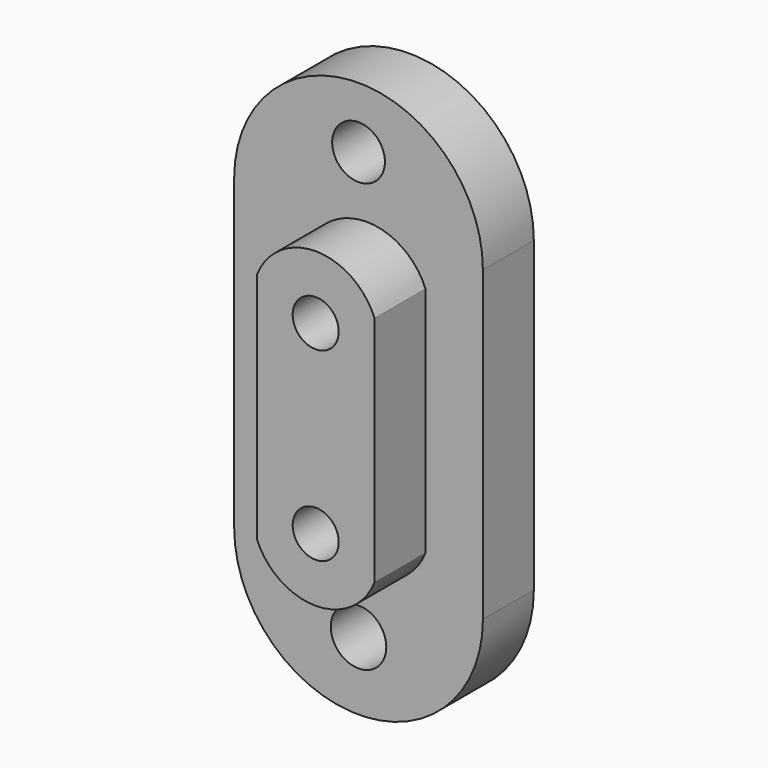
from build123d import *

# Parameters (mm, degrees)
F0_R     = 5.534072
F0_R_2   = 5.262589
F1_DEPTH = 12.7
F2_R     = 4.5907
F2_R_2   = 4.594767
F3_DEPTH = 25.4


with BuildPart() as f1:
    # F0 (on Front) → F1 (new body)
    with BuildSketch(Plane.XZ):
        with BuildLine():
            ThreePointArc((16.002001, 24.957247), (-8.808441, 49.767689), (-33.618882, 24.957247))
            Line((-33.618882, 24.957247), (-33.618882, -36.408219))
            ThreePointArc((-33.618882, -36.408219), (-8.808441, -61.218661), (16.002001, -36.408219))
            Line((16.002001, -36.408219), (16.002001, 24.957247))
        make_face()
        with Locations((-8.808441, -47.565579)):
            Circle(F0_R, mode=Mode.SUBTRACT)
        with Locations((-8.808441, 37.582681)):
            Circle(F0_R_2, mode=Mode.SUBTRACT)
    extrude(amount=F1_DEPTH)

    # F2 (on Front) → F3 (join)
    with BuildSketch(Plane.XZ):
        with BuildLine():
            ThreePointArc((4.551028, 17.910495), (-7.193559, 25.868808), (-18.938147, 17.910495))
            Line((-18.938147, 17.910495), (-18.938147, -28.480623))
            ThreePointArc((-18.938147, -28.480623), (-7.193559, -36.411624), (4.551028, -28.480623))
            Line((4.551028, -28.480623), (4.551028, 17.910495))
        make_face()
        with Locations((-7.193559, -23.750164)):
            Circle(F2_R, mode=Mode.SUBTRACT)
        with Locations((-7.193559, 13.223535)):
            Circle(F2_R_2, mode=Mode.SUBTRACT)
    extrude(amount=F3_DEPTH)


solid = f1.part
